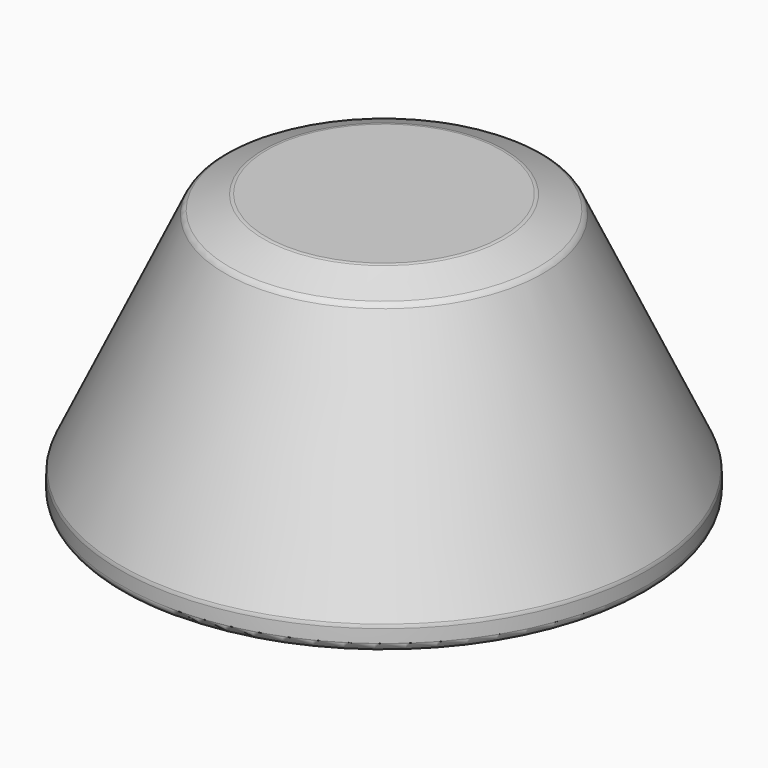
from build123d import *

# Parameters (mm, degrees)
F2_R = 2.6861


with BuildPart() as f1:
    # F0 (on Front) → F1 (revolve)
    with BuildSketch(Plane.XZ):
        Polygon((37.807997, 66.198751), (0, 66.198751), (0, 60.798751), (5.4, 60.798751), (36.75299, 60.798751), (46.001355, 57.041603), (78.324752, -12.340396), (78.324752, -13.17375), (78.324752, -18.57375), (83.724752, -18.57375), (83.724752, -11.14425), (50, 61.245751), align=None)
    revolve(axis=Axis((0, 0, 63.498751), (0, 0, 1)))

    # F2
    f2_edges = [f1.edges().sort_by_distance(p)[0] for p in [
        (-83.724752, 0, -18.57375),
        (-83.724752, 0, -11.14425),
        (83.724752, 0, -14.859),
        (-50, 0, 61.245751),
        (-37.807997, 0, 66.198751),
        (43.903998, 0, 63.722251),
        (66.862376, 0, 25.05075),
    ]]
    fillet(f2_edges, radius=F2_R)


solid = f1.part
